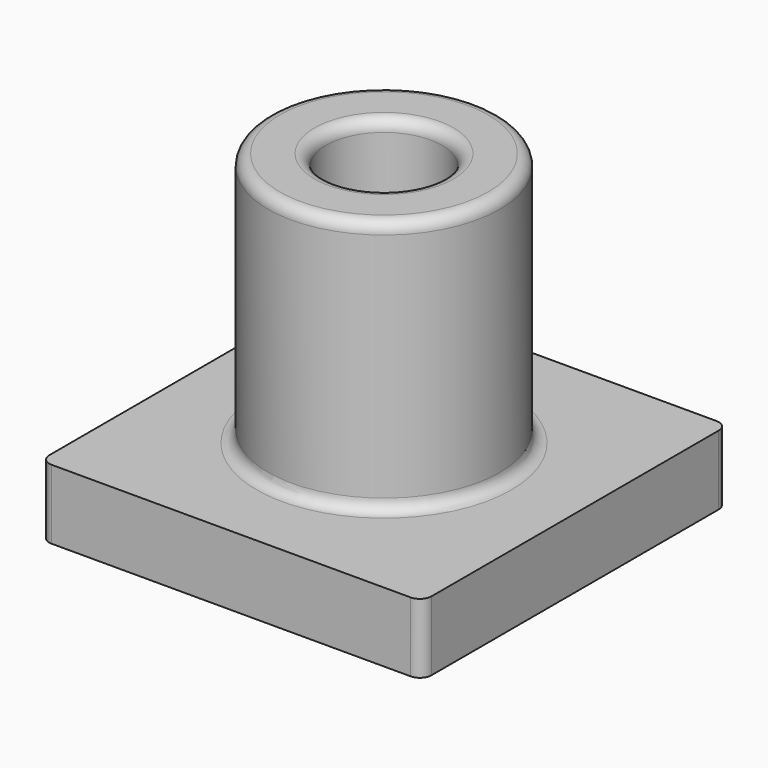
from build123d import *

# Parameters (mm, degrees)
F0_W     = 3.3
F0_H     = 3.3
F1_DEPTH = 0.6
F2_R     = 1
F3_DEPTH = 2.2
F4_R     = 0.5
F5_DEPTH = 2.8
F6_R     = 0.1


with BuildPart() as f1:
    # F0 (on Top) → F1 (new body)
    with BuildSketch(Plane.XY):
        Rectangle(F0_W, F0_H)
    extrude(amount=F1_DEPTH)

    # F2 (on face) → F3 (join)
    with BuildSketch(Plane.XY.offset(0.6)):
        Circle(F2_R)
    extrude(amount=F3_DEPTH)

    # F4 (on face) → F5 (cut, through all)
    with BuildSketch(Plane.XY.offset(2.8)):
        Circle(F4_R)
    extrude(amount=-F5_DEPTH, mode=Mode.SUBTRACT)

    # F6
    f6_edges = [f1.edges().sort_by_distance(p)[0] for p in [
        (-1, 0, 2.8),
        (-0.5, 0, 2.8),
        (-1, 0, 0.6),
        (-1.65, -1.65, 0.3),
        (1.65, -1.65, 0.3),
        (-1.65, 1.65, 0.3),
        (1.65, 1.65, 0.3),
        (-0.5, 0, 0),
    ]]
    fillet(f6_edges, radius=F6_R)


solid = f1.part
